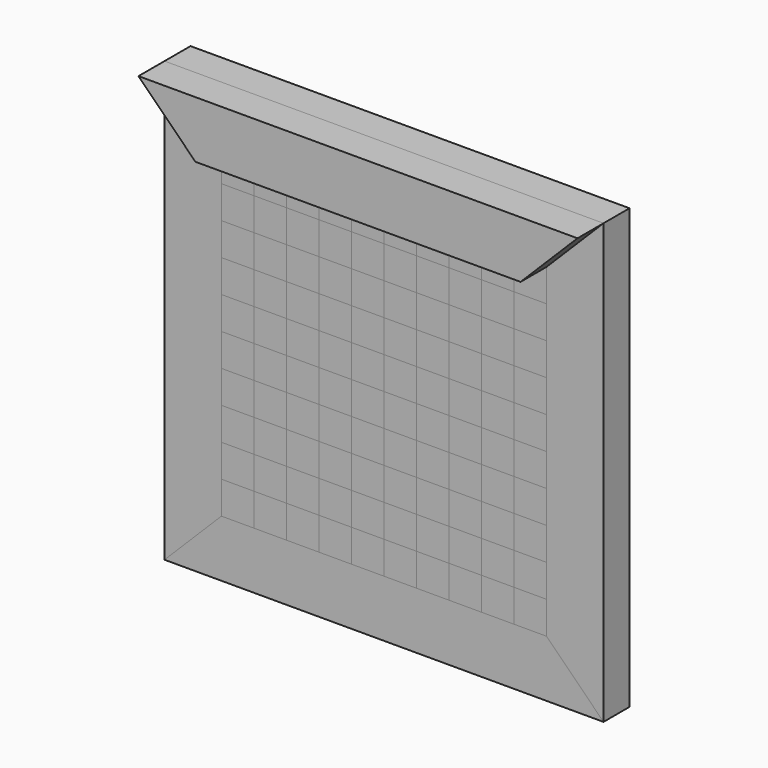
from build123d import *

# Parameters (mm, degrees)
F1_DEPTH = 25.4
F2_DEPTH = 25.4
F3_DEPTH = 25.4
F0_W     = 25.4
F0_H     = 25.4
F4_DEPTH = 25.4
F5_DEPTH = 25.4


with BuildPart() as f1:
    # F0 (on Front) → F1 (new body)
    with BuildSketch(Plane.XZ):
        Polygon((127, 127), (171.45, 171.45), (-171.45, 171.45), (-127, 127), (-101.6, 127), (-76.2, 127), (-50.8, 127), (-25.4, 127), (0, 127), (25.4, 127), (50.8, 127), (76.2, 127), (101.6, 127), align=None)
    extrude(amount=F1_DEPTH)


with BuildPart() as f2:
    # F0 (on Front) → F2 (new body)
    with BuildSketch(Plane.XZ):
        Polygon((-127, 127), (-171.45, 171.45), (-171.45, -171.45), (-127, -127), (-127, -101.6), (-127, -76.2), (-127, -50.8), (-127, -25.4), (-127, 0), (-127, 25.4), (-127, 50.8), (-127, 76.2), (-127, 101.6), align=None)
    extrude(amount=F2_DEPTH)


with BuildPart() as f2b:
    # F0 (on Front) → F2, piece 2 (new body)
    with BuildSketch(Plane.XZ):
        Polygon((171.45, -171.45), (171.45, 171.45), (127, 127), (127, 101.6), (127, 76.2), (127, 50.8), (127, 25.4), (127, 0), (127, -25.4), (127, -50.8), (127, -76.2), (127, -101.6), (127, -127), align=None)
    extrude(amount=F2_DEPTH)


with BuildPart() as f3:
    # F0 (on Front) + F1_face (on face) → F3 (new body)
    with BuildSketch(Plane.XZ):
        Polygon((-171.45, -171.45), (171.45, -171.45), (127, -127), (101.6, -127), (76.2, -127), (50.8, -127), (25.4, -127), (0, -127), (-25.4, -127), (-50.8, -127), (-76.2, -127), (-101.6, -127), (-127, -127), align=None)
    with BuildSketch(Plane(origin=(0, -25.4, 150.3283687943), x_dir=(1, 0, 0), z_dir=(0, -1, 0))):
        Polygon((127, -23.3283687943), (171.45, 21.1216312057), (-171.45, 21.1216312057), (-127, -23.3283687943), align=None)
    extrude(amount=F3_DEPTH)


with BuildPart() as f4:
    # F0 (on Front) → F4 (new body)
    with BuildSketch(Plane.XZ):
        with Locations((-114.3, 114.3)):
            Rectangle(F0_W, F0_H)
    extrude(amount=F4_DEPTH)


with BuildPart() as f4b:
    # F0 (on Front) → F4, piece 2 (new body)
    with BuildSketch(Plane.XZ):
        with Locations((-63.5, 114.3)):
            Rectangle(F0_W, F0_H)
    extrude(amount=F4_DEPTH)


with BuildPart() as f4c:
    # F0 (on Front) → F4, piece 3 (new body)
    with BuildSketch(Plane.XZ):
        with Locations((-12.7, 114.3)):
            Rectangle(F0_W, F0_H)
    extrude(amount=F4_DEPTH)


with BuildPart() as f4d:
    # F0 (on Front) → F4, piece 4 (new body)
    with BuildSketch(Plane.XZ):
        with Locations((38.1, 114.3)):
            Rectangle(F0_W, F0_H)
    extrude(amount=F4_DEPTH)


with BuildPart() as f4e:
    # F0 (on Front) → F4, piece 5 (new body)
    with BuildSketch(Plane.XZ):
        with Locations((88.9, 114.3)):
            Rectangle(F0_W, F0_H)
    extrude(amount=F4_DEPTH)


with BuildPart() as f4f:
    # F0 (on Front) → F4, piece 6 (new body)
    with BuildSketch(Plane.XZ):
        with Locations((-88.9, 88.9)):
            Rectangle(F0_W, F0_H)
    extrude(amount=F4_DEPTH)


with BuildPart() as f4g:
    # F0 (on Front) → F4, piece 7 (new body)
    with BuildSketch(Plane.XZ):
        with Locations((-38.1, 88.9)):
            Rectangle(F0_W, F0_H)
    extrude(amount=F4_DEPTH)


with BuildPart() as f4h:
    # F0 (on Front) → F4, piece 8 (new body)
    with BuildSketch(Plane.XZ):
        with Locations((12.7, 88.9)):
            Rectangle(F0_W, F0_H)
    extrude(amount=F4_DEPTH)


with BuildPart() as f4i:
    # F0 (on Front) → F4, piece 9 (new body)
    with BuildSketch(Plane.XZ):
        with Locations((63.5, 88.9)):
            Rectangle(F0_W, F0_H)
    extrude(amount=F4_DEPTH)


with BuildPart() as f4j:
    # F0 (on Front) → F4, piece 10 (new body)
    with BuildSketch(Plane.XZ):
        with Locations((114.3, 88.9)):
            Rectangle(F0_W, F0_H)
    extrude(amount=F4_DEPTH)


with BuildPart() as f4k:
    # F0 (on Front) → F4, piece 11 (new body)
    with BuildSketch(Plane.XZ):
        with Locations((88.9, 63.5)):
            Rectangle(F0_W, F0_H)
    extrude(amount=F4_DEPTH)


with BuildPart() as f4l:
    # F0 (on Front) → F4, piece 12 (new body)
    with BuildSketch(Plane.XZ):
        with Locations((38.1, 63.5)):
            Rectangle(F0_W, F0_H)
    extrude(amount=F4_DEPTH)


with BuildPart() as f4m:
    # F0 (on Front) → F4, piece 13 (new body)
    with BuildSketch(Plane.XZ):
        with Locations((-12.7, 63.5)):
            Rectangle(F0_W, F0_H)
    extrude(amount=F4_DEPTH)


with BuildPart() as f4n:
    # F0 (on Front) → F4, piece 14 (new body)
    with BuildSketch(Plane.XZ):
        with Locations((-63.5, 63.5)):
            Rectangle(F0_W, F0_H)
    extrude(amount=F4_DEPTH)


with BuildPart() as f4o:
    # F0 (on Front) → F4, piece 15 (new body)
    with BuildSketch(Plane.XZ):
        with Locations((-114.3, 63.5)):
            Rectangle(F0_W, F0_H)
    extrude(amount=F4_DEPTH)


with BuildPart() as f4p:
    # F0 (on Front) → F4, piece 16 (new body)
    with BuildSketch(Plane.XZ):
        with Locations((-88.9, 38.1)):
            Rectangle(F0_W, F0_H)
    extrude(amount=F4_DEPTH)


with BuildPart() as f4q:
    # F0 (on Front) → F4, piece 17 (new body)
    with BuildSketch(Plane.XZ):
        with Locations((-38.1, 38.1)):
            Rectangle(F0_W, F0_H)
    extrude(amount=F4_DEPTH)


with BuildPart() as f4r:
    # F0 (on Front) → F4, piece 18 (new body)
    with BuildSketch(Plane.XZ):
        with Locations((12.7, 38.1)):
            Rectangle(F0_W, F0_H)
    extrude(amount=F4_DEPTH)


with BuildPart() as f4s:
    # F0 (on Front) → F4, piece 19 (new body)
    with BuildSketch(Plane.XZ):
        with Locations((63.5, 38.1)):
            Rectangle(F0_W, F0_H)
    extrude(amount=F4_DEPTH)


with BuildPart() as f4t:
    # F0 (on Front) → F4, piece 20 (new body)
    with BuildSketch(Plane.XZ):
        with Locations((114.3, 38.1)):
            Rectangle(F0_W, F0_H)
    extrude(amount=F4_DEPTH)


with BuildPart() as f4u:
    # F0 (on Front) → F4, piece 21 (new body)
    with BuildSketch(Plane.XZ):
        with Locations((88.9, 12.7)):
            Rectangle(F0_W, F0_H)
    extrude(amount=F4_DEPTH)


with BuildPart() as f4v:
    # F0 (on Front) → F4, piece 22 (new body)
    with BuildSketch(Plane.XZ):
        with Locations((38.1, 12.7)):
            Rectangle(F0_W, F0_H)
    extrude(amount=F4_DEPTH)


with BuildPart() as f4w:
    # F0 (on Front) → F4, piece 23 (new body)
    with BuildSketch(Plane.XZ):
        with Locations((-12.7, 12.7)):
            Rectangle(F0_W, F0_H)
    extrude(amount=F4_DEPTH)


with BuildPart() as f4x:
    # F0 (on Front) → F4, piece 24 (new body)
    with BuildSketch(Plane.XZ):
        with Locations((-63.5, 12.7)):
            Rectangle(F0_W, F0_H)
    extrude(amount=F4_DEPTH)


with BuildPart() as f4y:
    # F0 (on Front) → F4, piece 25 (new body)
    with BuildSketch(Plane.XZ):
        with Locations((-114.3, 12.7)):
            Rectangle(F0_W, F0_H)
    extrude(amount=F4_DEPTH)


with BuildPart() as f4z:
    # F0 (on Front) → F4, piece 26 (new body)
    with BuildSketch(Plane.XZ):
        with Locations((-88.9, -12.7)):
            Rectangle(F0_W, F0_H)
    extrude(amount=F4_DEPTH)


with BuildPart() as f4ba:
    # F0 (on Front) → F4, piece 27 (new body)
    with BuildSketch(Plane.XZ):
        with Locations((-38.1, -12.7)):
            Rectangle(F0_W, F0_H)
    extrude(amount=F4_DEPTH)


with BuildPart() as f4bb:
    # F0 (on Front) → F4, piece 28 (new body)
    with BuildSketch(Plane.XZ):
        with Locations((12.7, -12.7)):
            Rectangle(F0_W, F0_H)
    extrude(amount=F4_DEPTH)


with BuildPart() as f4bc:
    # F0 (on Front) → F4, piece 29 (new body)
    with BuildSketch(Plane.XZ):
        with Locations((63.5, -12.7)):
            Rectangle(F0_W, F0_H)
    extrude(amount=F4_DEPTH)


with BuildPart() as f4bd:
    # F0 (on Front) → F4, piece 30 (new body)
    with BuildSketch(Plane.XZ):
        with Locations((114.3, -12.7)):
            Rectangle(F0_W, F0_H)
    extrude(amount=F4_DEPTH)


with BuildPart() as f4be:
    # F0 (on Front) → F4, piece 31 (new body)
    with BuildSketch(Plane.XZ):
        with Locations((88.9, -38.1)):
            Rectangle(F0_W, F0_H)
    extrude(amount=F4_DEPTH)


with BuildPart() as f4bf:
    # F0 (on Front) → F4, piece 32 (new body)
    with BuildSketch(Plane.XZ):
        with Locations((38.1, -38.1)):
            Rectangle(F0_W, F0_H)
    extrude(amount=F4_DEPTH)


with BuildPart() as f4bg:
    # F0 (on Front) → F4, piece 33 (new body)
    with BuildSketch(Plane.XZ):
        with Locations((-12.7, -38.1)):
            Rectangle(F0_W, F0_H)
    extrude(amount=F4_DEPTH)


with BuildPart() as f4bh:
    # F0 (on Front) → F4, piece 34 (new body)
    with BuildSketch(Plane.XZ):
        with Locations((-63.5, -38.1)):
            Rectangle(F0_W, F0_H)
    extrude(amount=F4_DEPTH)


with BuildPart() as f4bi:
    # F0 (on Front) → F4, piece 35 (new body)
    with BuildSketch(Plane.XZ):
        with Locations((-114.3, -38.1)):
            Rectangle(F0_W, F0_H)
    extrude(amount=F4_DEPTH)


with BuildPart() as f4bj:
    # F0 (on Front) → F4, piece 36 (new body)
    with BuildSketch(Plane.XZ):
        with Locations((-88.9, -63.5)):
            Rectangle(F0_W, F0_H)
    extrude(amount=F4_DEPTH)


with BuildPart() as f4bk:
    # F0 (on Front) → F4, piece 37 (new body)
    with BuildSketch(Plane.XZ):
        with Locations((-38.1, -63.5)):
            Rectangle(F0_W, F0_H)
    extrude(amount=F4_DEPTH)


with BuildPart() as f4bl:
    # F0 (on Front) → F4, piece 38 (new body)
    with BuildSketch(Plane.XZ):
        with Locations((12.7, -63.5)):
            Rectangle(F0_W, F0_H)
    extrude(amount=F4_DEPTH)


with BuildPart() as f4bm:
    # F0 (on Front) → F4, piece 39 (new body)
    with BuildSketch(Plane.XZ):
        with Locations((63.5, -63.5)):
            Rectangle(F0_W, F0_H)
    extrude(amount=F4_DEPTH)


with BuildPart() as f4bn:
    # F0 (on Front) → F4, piece 40 (new body)
    with BuildSketch(Plane.XZ):
        with Locations((114.3, -63.5)):
            Rectangle(F0_W, F0_H)
    extrude(amount=F4_DEPTH)


with BuildPart() as f4bo:
    # F0 (on Front) → F4, piece 41 (new body)
    with BuildSketch(Plane.XZ):
        with Locations((88.9, -88.9)):
            Rectangle(F0_W, F0_H)
    extrude(amount=F4_DEPTH)


with BuildPart() as f4bp:
    # F0 (on Front) → F4, piece 42 (new body)
    with BuildSketch(Plane.XZ):
        with Locations((38.1, -88.9)):
            Rectangle(F0_W, F0_H)
    extrude(amount=F4_DEPTH)


with BuildPart() as f4bq:
    # F0 (on Front) → F4, piece 43 (new body)
    with BuildSketch(Plane.XZ):
        with Locations((-12.7, -88.9)):
            Rectangle(F0_W, F0_H)
    extrude(amount=F4_DEPTH)


with BuildPart() as f4br:
    # F0 (on Front) → F4, piece 44 (new body)
    with BuildSketch(Plane.XZ):
        with Locations((-63.5, -88.9)):
            Rectangle(F0_W, F0_H)
    extrude(amount=F4_DEPTH)


with BuildPart() as f4bs:
    # F0 (on Front) → F4, piece 45 (new body)
    with BuildSketch(Plane.XZ):
        with Locations((-114.3, -88.9)):
            Rectangle(F0_W, F0_H)
    extrude(amount=F4_DEPTH)


with BuildPart() as f4bt:
    # F0 (on Front) → F4, piece 46 (new body)
    with BuildSketch(Plane.XZ):
        with Locations((-88.9, -114.3)):
            Rectangle(F0_W, F0_H)
    extrude(amount=F4_DEPTH)


with BuildPart() as f4bu:
    # F0 (on Front) → F4, piece 47 (new body)
    with BuildSketch(Plane.XZ):
        with Locations((12.7, -114.3)):
            Rectangle(F0_W, F0_H)
    extrude(amount=F4_DEPTH)


with BuildPart() as f4bv:
    # F0 (on Front) → F4, piece 48 (new body)
    with BuildSketch(Plane.XZ):
        with Locations((-38.1, -114.3)):
            Rectangle(F0_W, F0_H)
    extrude(amount=F4_DEPTH)


with BuildPart() as f4bw:
    # F0 (on Front) → F4, piece 49 (new body)
    with BuildSketch(Plane.XZ):
        with Locations((63.5, -114.3)):
            Rectangle(F0_W, F0_H)
    extrude(amount=F4_DEPTH)


with BuildPart() as f4bx:
    # F0 (on Front) → F4, piece 50 (new body)
    with BuildSketch(Plane.XZ):
        with Locations((114.3, -114.3)):
            Rectangle(F0_W, F0_H)
    extrude(amount=F4_DEPTH)


with BuildPart() as f5:
    # F0 (on Front) → F5 (new body)
    with BuildSketch(Plane.XZ):
        with Locations((-88.9, 114.3)):
            Rectangle(F0_W, F0_H)
    extrude(amount=F5_DEPTH)


with BuildPart() as f5b:
    # F0 (on Front) → F5, piece 2 (new body)
    with BuildSketch(Plane.XZ):
        with Locations((-38.1, 114.3)):
            Rectangle(F0_W, F0_H)
    extrude(amount=F5_DEPTH)


with BuildPart() as f5c:
    # F0 (on Front) → F5, piece 3 (new body)
    with BuildSketch(Plane.XZ):
        with Locations((12.7, 114.3)):
            Rectangle(F0_W, F0_H)
    extrude(amount=F5_DEPTH)


with BuildPart() as f5d:
    # F0 (on Front) → F5, piece 4 (new body)
    with BuildSketch(Plane.XZ):
        with Locations((63.5, 114.3)):
            Rectangle(F0_W, F0_H)
    extrude(amount=F5_DEPTH)


with BuildPart() as f5e:
    # F0 (on Front) → F5, piece 5 (new body)
    with BuildSketch(Plane.XZ):
        with Locations((114.3, 114.3)):
            Rectangle(F0_W, F0_H)
    extrude(amount=F5_DEPTH)


with BuildPart() as f5f:
    # F0 (on Front) → F5, piece 6 (new body)
    with BuildSketch(Plane.XZ):
        with Locations((88.9, 88.9)):
            Rectangle(F0_W, F0_H)
    extrude(amount=F5_DEPTH)


with BuildPart() as f5g:
    # F0 (on Front) → F5, piece 7 (new body)
    with BuildSketch(Plane.XZ):
        with Locations((38.1, 88.9)):
            Rectangle(F0_W, F0_H)
    extrude(amount=F5_DEPTH)


with BuildPart() as f5h:
    # F0 (on Front) → F5, piece 8 (new body)
    with BuildSketch(Plane.XZ):
        with Locations((-12.7, 88.9)):
            Rectangle(F0_W, F0_H)
    extrude(amount=F5_DEPTH)


with BuildPart() as f5i:
    # F0 (on Front) → F5, piece 9 (new body)
    with BuildSketch(Plane.XZ):
        with Locations((-63.5, 88.9)):
            Rectangle(F0_W, F0_H)
    extrude(amount=F5_DEPTH)


with BuildPart() as f5j:
    # F0 (on Front) → F5, piece 10 (new body)
    with BuildSketch(Plane.XZ):
        with Locations((-114.3, 88.9)):
            Rectangle(F0_W, F0_H)
    extrude(amount=F5_DEPTH)


with BuildPart() as f5k:
    # F0 (on Front) → F5, piece 11 (new body)
    with BuildSketch(Plane.XZ):
        with Locations((-88.9, 63.5)):
            Rectangle(F0_W, F0_H)
    extrude(amount=F5_DEPTH)


with BuildPart() as f5l:
    # F0 (on Front) → F5, piece 12 (new body)
    with BuildSketch(Plane.XZ):
        with Locations((-38.1, 63.5)):
            Rectangle(F0_W, F0_H)
    extrude(amount=F5_DEPTH)


with BuildPart() as f5m:
    # F0 (on Front) → F5, piece 13 (new body)
    with BuildSketch(Plane.XZ):
        with Locations((12.7, 63.5)):
            Rectangle(F0_W, F0_H)
    extrude(amount=F5_DEPTH)


with BuildPart() as f5n:
    # F0 (on Front) → F5, piece 14 (new body)
    with BuildSketch(Plane.XZ):
        with Locations((63.5, 63.5)):
            Rectangle(F0_W, F0_H)
    extrude(amount=F5_DEPTH)


with BuildPart() as f5o:
    # F0 (on Front) → F5, piece 15 (new body)
    with BuildSketch(Plane.XZ):
        with Locations((114.3, 63.5)):
            Rectangle(F0_W, F0_H)
    extrude(amount=F5_DEPTH)


with BuildPart() as f5p:
    # F0 (on Front) → F5, piece 16 (new body)
    with BuildSketch(Plane.XZ):
        with Locations((88.9, 38.1)):
            Rectangle(F0_W, F0_H)
    extrude(amount=F5_DEPTH)


with BuildPart() as f5q:
    # F0 (on Front) → F5, piece 17 (new body)
    with BuildSketch(Plane.XZ):
        with Locations((38.1, 38.1)):
            Rectangle(F0_W, F0_H)
    extrude(amount=F5_DEPTH)


with BuildPart() as f5r:
    # F0 (on Front) → F5, piece 18 (new body)
    with BuildSketch(Plane.XZ):
        with Locations((-12.7, 38.1)):
            Rectangle(F0_W, F0_H)
    extrude(amount=F5_DEPTH)


with BuildPart() as f5s:
    # F0 (on Front) → F5, piece 19 (new body)
    with BuildSketch(Plane.XZ):
        with Locations((-63.5, 38.1)):
            Rectangle(F0_W, F0_H)
    extrude(amount=F5_DEPTH)


with BuildPart() as f5t:
    # F0 (on Front) → F5, piece 20 (new body)
    with BuildSketch(Plane.XZ):
        with Locations((-114.3, 38.1)):
            Rectangle(F0_W, F0_H)
    extrude(amount=F5_DEPTH)


with BuildPart() as f5u:
    # F0 (on Front) → F5, piece 21 (new body)
    with BuildSketch(Plane.XZ):
        with Locations((-88.9, 12.7)):
            Rectangle(F0_W, F0_H)
    extrude(amount=F5_DEPTH)


with BuildPart() as f5v:
    # F0 (on Front) → F5, piece 22 (new body)
    with BuildSketch(Plane.XZ):
        with Locations((-38.1, 12.7)):
            Rectangle(F0_W, F0_H)
    extrude(amount=F5_DEPTH)


with BuildPart() as f5w:
    # F0 (on Front) → F5, piece 23 (new body)
    with BuildSketch(Plane.XZ):
        with Locations((12.7, 12.7)):
            Rectangle(F0_W, F0_H)
    extrude(amount=F5_DEPTH)


with BuildPart() as f5x:
    # F0 (on Front) → F5, piece 24 (new body)
    with BuildSketch(Plane.XZ):
        with Locations((63.5, 12.7)):
            Rectangle(F0_W, F0_H)
    extrude(amount=F5_DEPTH)


with BuildPart() as f5y:
    # F0 (on Front) → F5, piece 25 (new body)
    with BuildSketch(Plane.XZ):
        with Locations((114.3, 12.7)):
            Rectangle(F0_W, F0_H)
    extrude(amount=F5_DEPTH)


with BuildPart() as f5z:
    # F0 (on Front) → F5, piece 26 (new body)
    with BuildSketch(Plane.XZ):
        with Locations((88.9, -12.7)):
            Rectangle(F0_W, F0_H)
    extrude(amount=F5_DEPTH)


with BuildPart() as f5ba:
    # F0 (on Front) → F5, piece 27 (new body)
    with BuildSketch(Plane.XZ):
        with Locations((38.1, -12.7)):
            Rectangle(F0_W, F0_H)
    extrude(amount=F5_DEPTH)


with BuildPart() as f5bb:
    # F0 (on Front) → F5, piece 28 (new body)
    with BuildSketch(Plane.XZ):
        with Locations((-12.7, -12.7)):
            Rectangle(F0_W, F0_H)
    extrude(amount=F5_DEPTH)


with BuildPart() as f5bc:
    # F0 (on Front) → F5, piece 29 (new body)
    with BuildSketch(Plane.XZ):
        with Locations((-63.5, -12.7)):
            Rectangle(F0_W, F0_H)
    extrude(amount=F5_DEPTH)


with BuildPart() as f5bd:
    # F0 (on Front) → F5, piece 30 (new body)
    with BuildSketch(Plane.XZ):
        with Locations((-114.3, -12.7)):
            Rectangle(F0_W, F0_H)
    extrude(amount=F5_DEPTH)


with BuildPart() as f5be:
    # F0 (on Front) → F5, piece 31 (new body)
    with BuildSketch(Plane.XZ):
        with Locations((-88.9, -38.1)):
            Rectangle(F0_W, F0_H)
    extrude(amount=F5_DEPTH)


with BuildPart() as f5bf:
    # F0 (on Front) → F5, piece 32 (new body)
    with BuildSketch(Plane.XZ):
        with Locations((-38.1, -38.1)):
            Rectangle(F0_W, F0_H)
    extrude(amount=F5_DEPTH)


with BuildPart() as f5bg:
    # F0 (on Front) → F5, piece 33 (new body)
    with BuildSketch(Plane.XZ):
        with Locations((12.7, -38.1)):
            Rectangle(F0_W, F0_H)
    extrude(amount=F5_DEPTH)


with BuildPart() as f5bh:
    # F0 (on Front) → F5, piece 34 (new body)
    with BuildSketch(Plane.XZ):
        with Locations((63.5, -38.1)):
            Rectangle(F0_W, F0_H)
    extrude(amount=F5_DEPTH)


with BuildPart() as f5bi:
    # F0 (on Front) → F5, piece 35 (new body)
    with BuildSketch(Plane.XZ):
        with Locations((114.3, -38.1)):
            Rectangle(F0_W, F0_H)
    extrude(amount=F5_DEPTH)


with BuildPart() as f5bj:
    # F0 (on Front) → F5, piece 36 (new body)
    with BuildSketch(Plane.XZ):
        with Locations((88.9, -63.5)):
            Rectangle(F0_W, F0_H)
    extrude(amount=F5_DEPTH)


with BuildPart() as f5bk:
    # F0 (on Front) → F5, piece 37 (new body)
    with BuildSketch(Plane.XZ):
        with Locations((38.1, -63.5)):
            Rectangle(F0_W, F0_H)
    extrude(amount=F5_DEPTH)


with BuildPart() as f5bl:
    # F0 (on Front) → F5, piece 38 (new body)
    with BuildSketch(Plane.XZ):
        with Locations((-12.7, -63.5)):
            Rectangle(F0_W, F0_H)
    extrude(amount=F5_DEPTH)


with BuildPart() as f5bm:
    # F0 (on Front) → F5, piece 39 (new body)
    with BuildSketch(Plane.XZ):
        with Locations((-63.5, -63.5)):
            Rectangle(F0_W, F0_H)
    extrude(amount=F5_DEPTH)


with BuildPart() as f5bn:
    # F0 (on Front) → F5, piece 40 (new body)
    with BuildSketch(Plane.XZ):
        with Locations((-114.3, -63.5)):
            Rectangle(F0_W, F0_H)
    extrude(amount=F5_DEPTH)


with BuildPart() as f5bo:
    # F0 (on Front) → F5, piece 41 (new body)
    with BuildSketch(Plane.XZ):
        with Locations((-88.9, -88.9)):
            Rectangle(F0_W, F0_H)
    extrude(amount=F5_DEPTH)


with BuildPart() as f5bp:
    # F0 (on Front) → F5, piece 42 (new body)
    with BuildSketch(Plane.XZ):
        with Locations((-38.1, -88.9)):
            Rectangle(F0_W, F0_H)
    extrude(amount=F5_DEPTH)


with BuildPart() as f5bq:
    # F0 (on Front) → F5, piece 43 (new body)
    with BuildSketch(Plane.XZ):
        with Locations((12.7, -88.9)):
            Rectangle(F0_W, F0_H)
    extrude(amount=F5_DEPTH)


with BuildPart() as f5br:
    # F0 (on Front) → F5, piece 44 (new body)
    with BuildSketch(Plane.XZ):
        with Locations((63.5, -88.9)):
            Rectangle(F0_W, F0_H)
    extrude(amount=F5_DEPTH)


with BuildPart() as f5bs:
    # F0 (on Front) → F5, piece 45 (new body)
    with BuildSketch(Plane.XZ):
        with Locations((114.3, -88.9)):
            Rectangle(F0_W, F0_H)
    extrude(amount=F5_DEPTH)


with BuildPart() as f5bt:
    # F0 (on Front) → F5, piece 46 (new body)
    with BuildSketch(Plane.XZ):
        with Locations((88.9, -114.3)):
            Rectangle(F0_W, F0_H)
    extrude(amount=F5_DEPTH)


with BuildPart() as f5bu:
    # F0 (on Front) → F5, piece 47 (new body)
    with BuildSketch(Plane.XZ):
        with Locations((38.1, -114.3)):
            Rectangle(F0_W, F0_H)
    extrude(amount=F5_DEPTH)


with BuildPart() as f5bv:
    # F0 (on Front) → F5, piece 48 (new body)
    with BuildSketch(Plane.XZ):
        with Locations((-12.7, -114.3)):
            Rectangle(F0_W, F0_H)
    extrude(amount=F5_DEPTH)


with BuildPart() as f5bw:
    # F0 (on Front) → F5, piece 49 (new body)
    with BuildSketch(Plane.XZ):
        with Locations((-63.5, -114.3)):
            Rectangle(F0_W, F0_H)
    extrude(amount=F5_DEPTH)


with BuildPart() as f5bx:
    # F0 (on Front) → F5, piece 50 (new body)
    with BuildSketch(Plane.XZ):
        with Locations((-114.3, -114.3)):
            Rectangle(F0_W, F0_H)
    extrude(amount=F5_DEPTH)


solid = Compound([f1.part, f2.part, f2b.part, f3.part, f4.part, f4b.part, f4c.part, f4d.part, f4e.part, f4f.part, f4g.part, f4h.part, f4i.part, f4j.part, f4k.part, f4l.part, f4m.part, f4n.part, f4o.part, f4p.part, f4q.part, f4r.part, f4s.part, f4t.part, f4u.part, f4v.part, f4w.part, f4x.part, f4y.part, f4z.part, f4ba.part, f4bb.part, f4bc.part, f4bd.part, f4be.part, f4bf.part, f4bg.part, f4bh.part, f4bi.part, f4bj.part, f4bk.part, f4bl.part, f4bm.part, f4bn.part, f4bo.part, f4bp.part, f4bq.part, f4br.part, f4bs.part, f4bt.part, f4bu.part, f4bv.part, f4bw.part, f4bx.part, f5.part, f5b.part, f5c.part, f5d.part, f5e.part, f5f.part, f5g.part, f5h.part, f5i.part, f5j.part, f5k.part, f5l.part, f5m.part, f5n.part, f5o.part, f5p.part, f5q.part, f5r.part, f5s.part, f5t.part, f5u.part, f5v.part, f5w.part, f5x.part, f5y.part, f5z.part, f5ba.part, f5bb.part, f5bc.part, f5bd.part, f5be.part, f5bf.part, f5bg.part, f5bh.part, f5bi.part, f5bj.part, f5bk.part, f5bl.part, f5bm.part, f5bn.part, f5bo.part, f5bp.part, f5bq.part, f5br.part, f5bs.part, f5bt.part, f5bu.part, f5bv.part, f5bw.part, f5bx.part])
